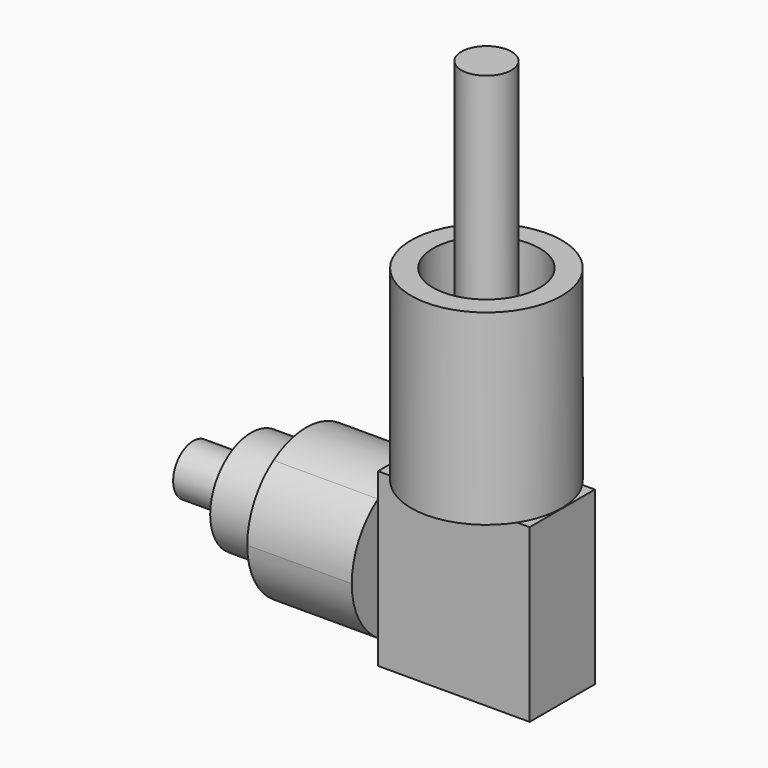
from build123d import *

# Parameters (mm, degrees)
F0_W      = 19.5
F0_H      = 41
F1_DEPTH  = 18.125
F2_R      = 18
F3_DEPTH  = 19.7
F4_R      = 18
F4_R_2    = 12.75
F5_DEPTH  = 25
F4_R_3    = 6
F6_DEPTH  = 68.6
F7_R      = 9.5
F8_DEPTH  = 25
F9_R      = 12.25
F9_R_2    = 9.5
F10_DEPTH = 13.14
F7_R_2    = 6
F11_DEPTH = 52


with BuildPart() as f1:
    # F0 (on Right) → F1 (new body, symmetric)
    with BuildSketch(Plane.YZ):
        Rectangle(F0_W, F0_H)
    extrude(amount=F1_DEPTH, both=True)

    # F2 (on face) → F3 (join)
    with BuildSketch(Plane.XY.offset(20.5)):
        Circle(F2_R)
    extrude(amount=F3_DEPTH)

    # F4 (on face) → F5 (join)
    with BuildSketch(Plane.XY.offset(40.2)):
        Circle(F4_R)
        Circle(F4_R_2, mode=Mode.SUBTRACT)
    extrude(amount=F5_DEPTH)

    # F7 (on face) → F8 (join)
    with BuildSketch(Plane(origin=(-18.125, 0, 0), x_dir=(0, -1, 0), z_dir=(-1, 0, 0))):
        with BuildLine():
            Line((-9.75, -14.65256), (-9.75, 14.65256))
            ThreePointArc((-9.75, 14.65256), (-17.6, 0), (-9.75, -14.65256))
        make_face()
        with BuildLine():
            Line((-9.75, -14.65256), (-9.75, 14.65256))
            ThreePointArc((-9.75, 14.65256), (-17.6, 0), (-9.75, -14.65256))
        make_face()
        with BuildLine():
            ThreePointArc((9.75, -14.65256), (15.513865, -8.311438), (17.6, 0))
            ThreePointArc((17.6, 0), (15.513865, 8.311438), (9.75, 14.65256))
            Line((9.75, 14.65256), (9.75, -14.65256))
        make_face()
        with BuildLine():
            Line((9.75, -14.65256), (9.75, 14.65256))
            ThreePointArc((9.75, 14.65256), (0, 17.6), (-9.75, 14.65256))
            Line((-9.75, 14.65256), (-9.75, -14.65256))
            ThreePointArc((-9.75, -14.65256), (0, -17.6), (9.75, -14.65256))
        make_face()
        Circle(F7_R, mode=Mode.SUBTRACT)
    extrude(amount=F8_DEPTH)

    # F9 (on face) → F10 (join)
    with BuildSketch(Plane(origin=(-43.125, 0, 0), x_dir=(0, -1, 0), z_dir=(-1, 0, 0))):
        Circle(F9_R)
        Circle(F9_R_2, mode=Mode.SUBTRACT)
    extrude(amount=F10_DEPTH)


with BuildPart() as f6:
    # F4 (on face) → F6 (new body)
    with BuildSketch(Plane.XY.offset(40.2)):
        Circle(F4_R_3)
    extrude(amount=F6_DEPTH)


with BuildPart() as f11:
    # F7 (on face) → F11 (new body)
    with BuildSketch(Plane(origin=(-18.125, 0, 0), x_dir=(0, -1, 0), z_dir=(-1, 0, 0))):
        Circle(F7_R_2)
    extrude(amount=F11_DEPTH)


solid = Compound([f1.part, f6.part, f11.part])
